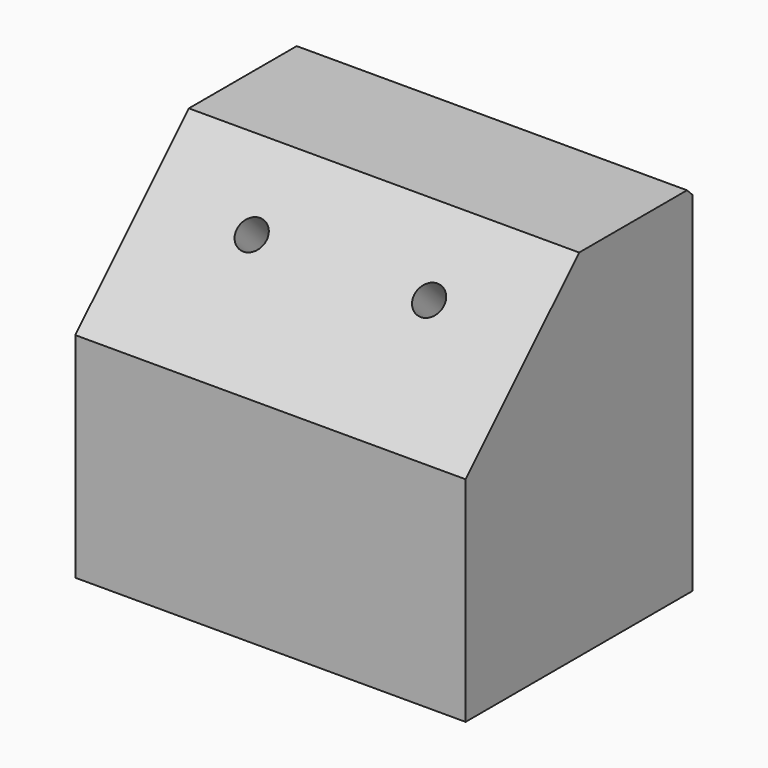
from build123d import *

# Parameters (mm, degrees)
F0_W     = 55
F0_H     = 40
F1_DEPTH = 50.1
F2_SIZE  = 20
F4_D     = 4.2
F5_SIZE  = 1


with BuildPart() as f1:
    # F0 (on Top) → F1 (new body)
    with BuildSketch(Plane.XY):
        with Locations((27.5, 20)):
            Rectangle(F0_W, F0_H)
    extrude(amount=F1_DEPTH)

    # F2
    f2_edges = [f1.edges().sort_by_distance(p)[0] for p in [
        (27.5, 0, 50.1),
    ]]
    chamfer(f2_edges, length=F2_SIZE)

    # F4 (through all)
    with Locations(Plane(origin=(0, -15.05, 15.05), x_dir=(1, 0, 0), z_dir=(0, -0.7071067812, 0.7071067812))):
        with Locations((40, 38.7047119439), (15, 38.7047119439)):
            Hole(F4_D / 2)

    # F5
    f5_edges = [f1.edges().sort_by_distance(p)[0] for p in [
        (27.5, 40, 50.1),
    ]]
    chamfer(f5_edges, length=F5_SIZE)


solid = f1.part
